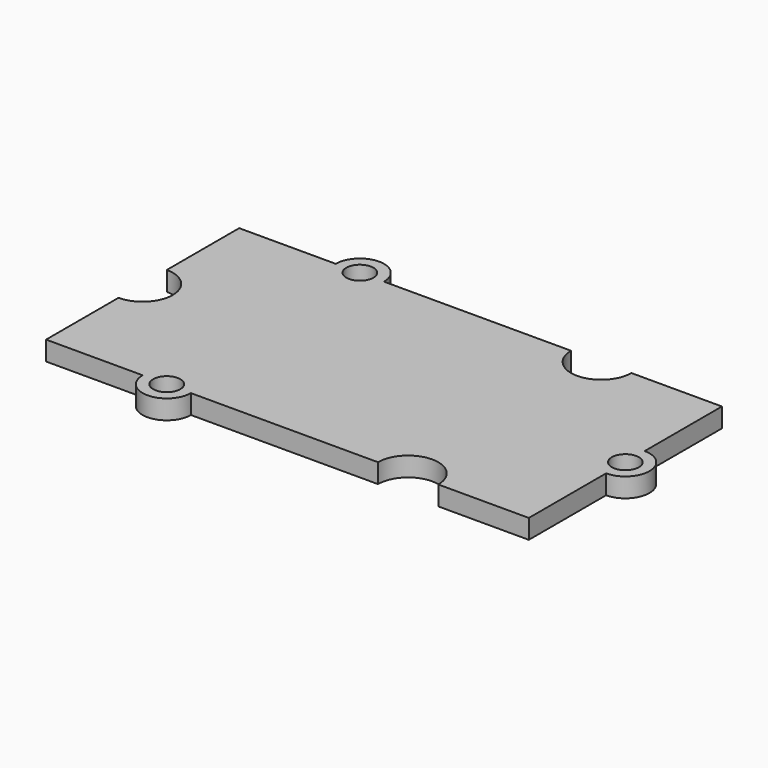
from build123d import *

# Parameters (mm, degrees)
PAD_DEPTH    = 1.6
SKETCH001_R  = 1.125
POCKET_DEPTH = 1.601


with BuildPart() as part:
    # Sketch → Pad (new body)
    with BuildSketch(Plane.XY):
        with BuildLine():
            Line((-20, 10), (-12, 10))
            ThreePointArc((-8, 10), (-10, 12), (-12, 10))
            Line((-8, 10), (0, 10))
            Line((0, 10), (7.5, 10))
            ThreePointArc((7.5, 10), (10, 7.5), (12.5, 10))
            Line((12.5, 10), (20, 10))
            Line((20, 10), (20, 2))
            ThreePointArc((20, -2), (22, 0), (20, 2))
            Line((20, -10), (20, -2))
            Line((20, -10), (12.5, -10))
            ThreePointArc((12.5, -10), (10, -7.5), (7.5, -10))
            Line((7.5, -10), (0, -10))
            Line((0, -10), (-8, -10))
            ThreePointArc((-12, -10), (-10, -12), (-8, -10))
            Line((-12, -10), (-20, -10))
            Line((-20, -10), (-20, -2.5))
            ThreePointArc((-20, -2.5), (-17.5, 0), (-20, 2.5))
            Line((-20, 10), (-20, 2.5))
        make_face()
    extrude(amount=PAD_DEPTH)

    # Sketch001 → Pocket (cut, through all)
    with BuildSketch(Plane.XY):
        with Locations((-10, 10)):
            Circle(SKETCH001_R)
        with Locations((-10, -10)):
            Circle(SKETCH001_R)
        with Locations((20, 0)):
            Circle(SKETCH001_R)
    extrude(amount=POCKET_DEPTH, mode=Mode.SUBTRACT)


solid = part.part
